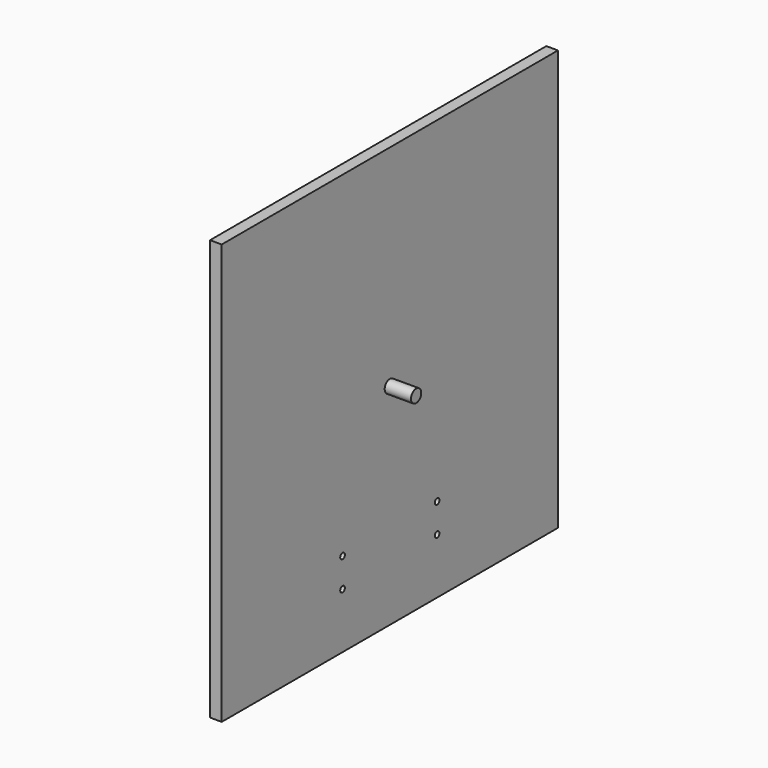
from build123d import *

# Parameters (mm, degrees)
F0_W     = 914.4
F0_H     = 914.4
F1_DEPTH = 25.4
F2_R     = 13.97
F3_DEPTH = 57.15
F5_D     = 12.7


with BuildPart() as f1:
    # F0 (on Right) → F1 (new body)
    with BuildSketch(Plane.YZ):
        Rectangle(F0_W, F0_H)
    extrude(amount=F1_DEPTH)

    # F2 (on face) → F3 (join)
    with BuildSketch(Plane.YZ.offset(25.4)):
        Circle(F2_R)
    extrude(amount=F3_DEPTH)

    # F5 (through all)
    with Locations(Plane.YZ.offset(25.4)):
        with Locations((-128.5875, -273.05), (128.5875, -273.05), (128.5875, -336.55), (-128.5875, -336.55)):
            Hole(F5_D / 2)


solid = f1.part
